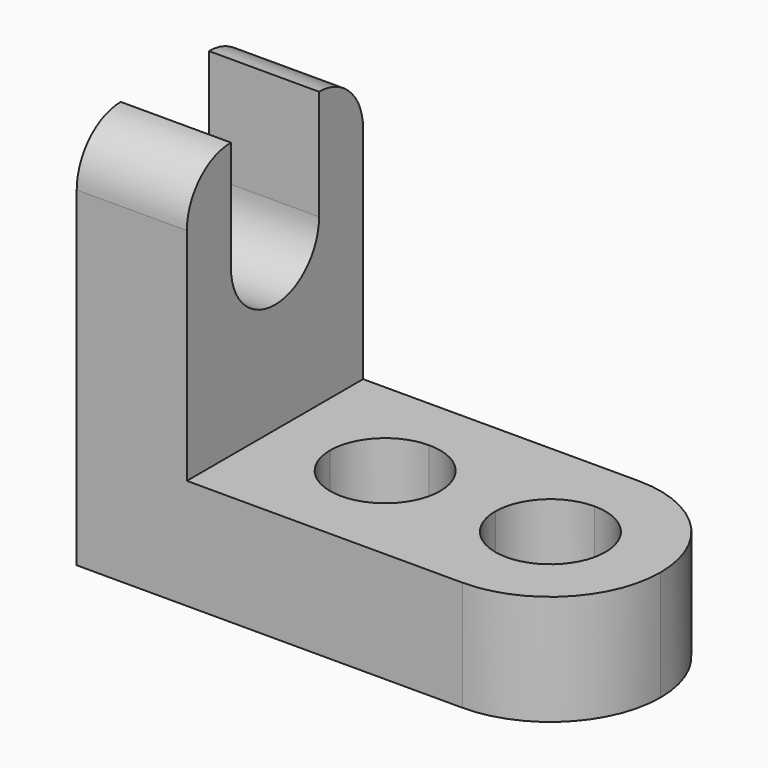
from build123d import *

# Parameters (mm, degrees)
F0_W      = 12.7
F0_H      = 12.7
F1_DEPTH  = 25.4
F3_DEPTH  = 12.701
F5_DEPTH  = 12.701
F7_DEPTH  = 25.4
F9_DEPTH  = 25.401
F11_DEPTH = 12.701


with BuildPart() as f1:
    # F0 (on Front) → F1 (new body)
    with BuildSketch(Plane.XZ):
        with Locations((63.5, 6.35)):
            Rectangle(F0_W, F0_H)
        with BuildLine():
            ThreePointArc((25.4, 25.4), (12.7, 12.7), (0, 25.4))
            Line((0, 25.4), (0, 0))
            Line((0, 0), (57.15, 0))
            Line((57.15, 0), (57.15, 12.7))
            Line((57.15, 12.7), (25.4, 12.7))
            Line((25.4, 12.7), (25.4, 25.4))
        make_face()
        with BuildLine():
            Line((6.35, 25.4), (0, 25.4))
            ThreePointArc((0, 25.4), (12.7, 12.7), (25.4, 25.4))
            Line((25.4, 25.4), (19.05, 25.4))
            ThreePointArc((19.05, 25.4), (12.7, 19.05), (6.35, 25.4))
        make_face()
        with BuildLine():
            ThreePointArc((25.4, 25.4), (12.7, 38.1), (0, 25.4))
            Line((0, 25.4), (6.35, 25.4))
            ThreePointArc((6.35, 25.4), (12.7, 31.75), (19.05, 25.4))
            Line((19.05, 25.4), (25.4, 25.4))
        make_face()
    extrude(amount=F1_DEPTH)

    # F2 (on face) → F3 (cut, through all)
    with BuildSketch(Plane.XY.offset(12.7)):
        with BuildLine():
            Line((69.85, 0), (57.15, 0))
            ThreePointArc((57.15, 0), (66.1302561211, -3.7197438789), (69.85, -12.7))
            Line((69.85, -12.7), (69.85, 0))
        make_face()
        with BuildLine():
            ThreePointArc((69.85, -12.7), (66.1302561211, -21.6802561211), (57.15, -25.4))
            Line((57.15, -25.4), (69.85, -25.4))
            Line((69.85, -25.4), (69.85, -12.7))
        make_face()
    extrude(amount=-F3_DEPTH, mode=Mode.SUBTRACT)

    # F4 (on face) → F5 (cut, through all)
    with BuildSketch(Plane.XY.offset(12.7)):
        with BuildLine():
            Line((31.75, -12.7), (38.1, -12.7))
            Line((38.1, -12.7), (38.1, -6.35))
            ThreePointArc((38.1, -6.35), (33.6098719395, -8.2098719395), (31.75, -12.7))
        make_face()
        with BuildLine():
            Line((38.1, -6.35), (38.1, -12.7))
            Line((38.1, -12.7), (44.45, -12.7))
            ThreePointArc((44.45, -12.7), (42.5901280605, -8.2098719395), (38.1, -6.35))
        make_face()
        with BuildLine():
            Line((44.45, -12.7), (38.1, -12.7))
            Line((38.1, -12.7), (38.1, -19.05))
            ThreePointArc((38.1, -19.05), (42.5901280605, -17.1901280605), (44.45, -12.7))
        make_face()
        with BuildLine():
            Line((38.1, -19.05), (38.1, -12.7))
            Line((38.1, -12.7), (31.75, -12.7))
            ThreePointArc((31.75, -12.7), (33.6098719395, -17.1901280605), (38.1, -19.05))
        make_face()
        with BuildLine():
            Line((57.15, -12.7), (50.8, -12.7))
            ThreePointArc((50.8, -12.7), (52.6598719395, -17.1901280605), (57.15, -19.05))
            Line((57.15, -19.05), (57.15, -12.7))
        make_face()
        with BuildLine():
            ThreePointArc((57.15, -6.35), (52.6598719395, -8.2098719395), (50.8, -12.7))
            Line((50.8, -12.7), (57.15, -12.7))
            Line((57.15, -12.7), (57.15, -6.35))
        make_face()
        with BuildLine():
            Line((57.15, -12.7), (57.15, -19.05))
            ThreePointArc((57.15, -19.05), (61.6401280605, -17.1901280605), (63.5, -12.7))
            ThreePointArc((63.5, -12.7), (61.6401280605, -8.2098719395), (57.15, -6.35))
            Line((57.15, -6.35), (57.15, -12.7))
        make_face()
    extrude(amount=-F5_DEPTH, mode=Mode.SUBTRACT)

    # F6 (on face) → F7 (join)
    with BuildSketch(Plane.XZ.offset(25.4)):
        with BuildLine():
            Line((12.7, 31.75), (12.7, 19.05))
            ThreePointArc((12.7, 19.05), (17.1901280605, 20.9098719395), (19.05, 25.4))
            ThreePointArc((19.05, 25.4), (17.1901280605, 29.8901280605), (12.7, 31.75))
        make_face()
        with BuildLine():
            Line((12.7, 12.7), (25.4, 12.7))
            Line((25.4, 12.7), (25.4, 25.4))
            ThreePointArc((25.4, 25.4), (21.6802561211, 34.3802561211), (12.7, 38.1))
            Line((12.7, 38.1), (12.7, 31.75))
            ThreePointArc((12.7, 31.75), (17.1901280605, 29.8901280605), (19.05, 25.4))
            ThreePointArc((19.05, 25.4), (17.1901280605, 20.9098719395), (12.7, 19.05))
            Line((12.7, 19.05), (12.7, 12.7))
        make_face()
        with BuildLine():
            ThreePointArc((12.7, 38.1), (21.6802561211, 34.3802561211), (25.4, 25.4))
            Line((25.4, 25.4), (25.4, 44.45))
            Line((25.4, 44.45), (12.7, 44.45))
            Line((12.7, 44.45), (12.7, 38.1))
        make_face()
    extrude(amount=-F7_DEPTH)

    # F8 (on face) → F9 (cut, through all)
    with BuildSketch(Plane.XZ.offset(25.4)):
        with BuildLine():
            Line((0, 44.45), (0, 25.4))
            ThreePointArc((0, 25.4), (3.7197438789, 34.3802561211), (12.7, 38.1))
            Line((12.7, 38.1), (12.7, 44.45))
            Line((12.7, 44.45), (0, 44.45))
        make_face()
        with BuildLine():
            Line((0, 25.4), (0, 0))
            Line((0, 0), (12.7, 0))
            Line((12.7, 0), (12.7, 19.05))
            ThreePointArc((12.7, 19.05), (6.35, 25.4), (12.7, 31.75))
            Line((12.7, 31.75), (12.7, 38.1))
            ThreePointArc((12.7, 38.1), (3.7197438789, 34.3802561211), (0, 25.4))
        make_face()
        with BuildLine():
            Line((0, 25.4), (0, 0))
            Line((0, 0), (12.7, 0))
            Line((12.7, 0), (12.7, 19.05))
            ThreePointArc((12.7, 19.05), (6.35, 25.4), (12.7, 31.75))
            Line((12.7, 31.75), (12.7, 38.1))
            ThreePointArc((12.7, 38.1), (3.7197438789, 34.3802561211), (0, 25.4))
        make_face()
    extrude(amount=-F9_DEPTH, mode=Mode.SUBTRACT)

    # F10 (on face) → F11 (cut, through all)
    with BuildSketch(Plane.YZ.offset(25.4)):
        with BuildLine():
            ThreePointArc((-25.4, 38.1), (-23.5401280605, 42.5901280605), (-19.05, 44.45))
            Line((-19.05, 44.45), (-25.4, 44.45))
            Line((-25.4, 44.45), (-25.4, 38.1))
        make_face()
        with BuildLine():
            Line((0, 44.45), (-6.35, 44.45))
            ThreePointArc((-6.35, 44.45), (-1.8598719395, 42.5901280605), (0, 38.1))
            Line((0, 38.1), (0, 44.45))
        make_face()
        with BuildLine():
            ThreePointArc((-6.35, 44.45), (-10.8401280605, 42.5901280605), (-12.7, 38.1))
            Line((-12.7, 38.1), (-6.35, 38.1))
            Line((-6.35, 38.1), (-6.35, 44.45))
        make_face()
        with BuildLine():
            Line((-6.35, 44.45), (-12.7, 44.45))
            Line((-12.7, 44.45), (-12.7, 38.1))
            ThreePointArc((-12.7, 38.1), (-10.8401280605, 42.5901280605), (-6.35, 44.45))
        make_face()
        with BuildLine():
            Line((-12.7, 38.1), (-12.7, 44.45))
            Line((-12.7, 44.45), (-19.05, 44.45))
            ThreePointArc((-19.05, 44.45), (-14.5598719395, 42.5901280605), (-12.7, 38.1))
        make_face()
        with BuildLine():
            Line((-19.05, 38.1), (-12.7, 38.1))
            ThreePointArc((-12.7, 38.1), (-14.5598719395, 42.5901280605), (-19.05, 44.45))
            Line((-19.05, 44.45), (-19.05, 38.1))
        make_face()
        with BuildLine():
            ThreePointArc((-19.05, 31.75), (-17.1901280605, 36.2401280605), (-12.7, 38.1))
            Line((-12.7, 38.1), (-19.05, 38.1))
            Line((-19.05, 38.1), (-19.05, 31.75))
        make_face()
        with BuildLine():
            ThreePointArc((-19.05, 31.75), (-14.5598719395, 33.6098719395), (-12.7, 38.1))
            ThreePointArc((-12.7, 38.1), (-17.1901280605, 36.2401280605), (-19.05, 31.75))
        make_face()
        with BuildLine():
            ThreePointArc((-6.35, 31.75), (-8.2098719395, 36.2401280605), (-12.7, 38.1))
            ThreePointArc((-12.7, 38.1), (-10.8401280605, 33.6098719395), (-6.35, 31.75))
        make_face()
        with BuildLine():
            ThreePointArc((-6.35, 31.75), (-10.8401280605, 33.6098719395), (-12.7, 38.1))
            ThreePointArc((-12.7, 38.1), (-14.5598719395, 33.6098719395), (-19.05, 31.75))
            ThreePointArc((-19.05, 31.75), (-12.7, 25.4), (-6.35, 31.75))
        make_face()
        with BuildLine():
            Line((-6.35, 38.1), (-12.7, 38.1))
            ThreePointArc((-12.7, 38.1), (-8.2098719395, 36.2401280605), (-6.35, 31.75))
            Line((-6.35, 31.75), (-6.35, 38.1))
        make_face()
    extrude(amount=-F11_DEPTH, mode=Mode.SUBTRACT)


solid = f1.part
